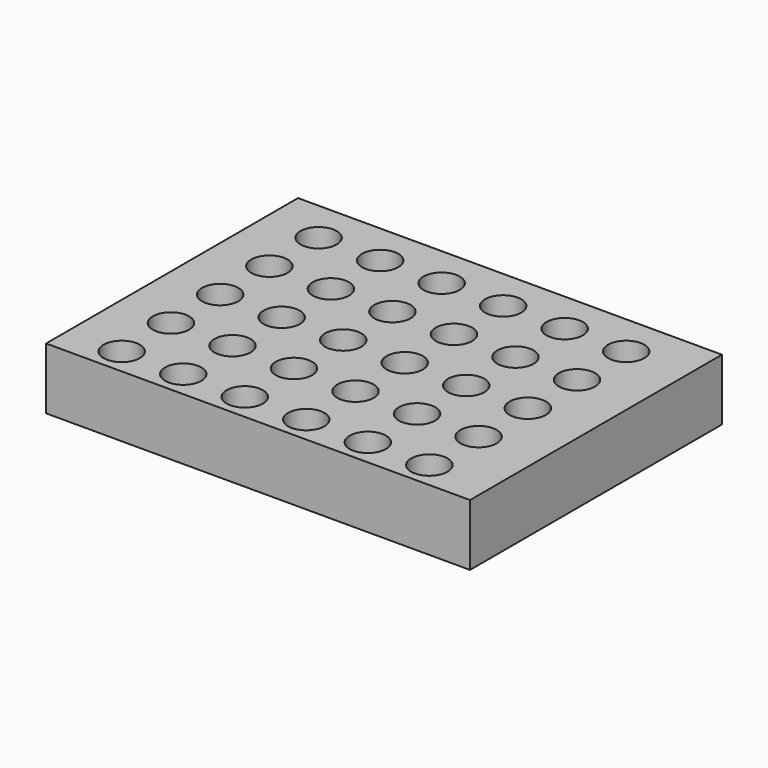
from build123d import *

# Parameters (mm, degrees)
F0_W     = 175
F0_H     = 130
F0_R     = 7.5
F1_DEPTH = 25.4


with BuildPart() as f1:
    # F0 (on Top) → F1 (new body)
    with BuildSketch(Plane.XY):
        with Locations((-0.0971, 0.811385)):
            Rectangle(F0_W, F0_H)
        with Locations((-65.0971, -53.288615)):
            Circle(F0_R, mode=Mode.SUBTRACT)
        with Locations((-39.6971, -53.288615)):
            Circle(F0_R, mode=Mode.SUBTRACT)
        with Locations((-14.2971, -53.288615)):
            Circle(F0_R, mode=Mode.SUBTRACT)
        with Locations((-65.0971, -27.888615)):
            Circle(F0_R, mode=Mode.SUBTRACT)
        with Locations((-65.0971, -2.488615)):
            Circle(F0_R, mode=Mode.SUBTRACT)
        with Locations((-39.6971, -27.888615)):
            Circle(F0_R, mode=Mode.SUBTRACT)
        with Locations((-14.2971, -27.888615)):
            Circle(F0_R, mode=Mode.SUBTRACT)
        with Locations((-39.6971, -2.488615)):
            Circle(F0_R, mode=Mode.SUBTRACT)
        with Locations((-14.2971, -2.488615)):
            Circle(F0_R, mode=Mode.SUBTRACT)
        with Locations((11.1029, -53.288615)):
            Circle(F0_R, mode=Mode.SUBTRACT)
        with Locations((36.5029, -53.288615)):
            Circle(F0_R, mode=Mode.SUBTRACT)
        with Locations((61.9029, -53.288615)):
            Circle(F0_R, mode=Mode.SUBTRACT)
        with Locations((11.1029, -27.888615)):
            Circle(F0_R, mode=Mode.SUBTRACT)
        with Locations((36.5029, -27.888615)):
            Circle(F0_R, mode=Mode.SUBTRACT)
        with Locations((11.1029, -2.488615)):
            Circle(F0_R, mode=Mode.SUBTRACT)
        with Locations((36.5029, -2.488615)):
            Circle(F0_R, mode=Mode.SUBTRACT)
        with Locations((61.9029, -27.888615)):
            Circle(F0_R, mode=Mode.SUBTRACT)
        with Locations((61.9029, -2.488615)):
            Circle(F0_R, mode=Mode.SUBTRACT)
        with Locations((-65.0971, 22.911385)):
            Circle(F0_R, mode=Mode.SUBTRACT)
        with Locations((-39.6971, 22.911385)):
            Circle(F0_R, mode=Mode.SUBTRACT)
        with Locations((-14.2971, 22.911385)):
            Circle(F0_R, mode=Mode.SUBTRACT)
        with Locations((-65.0971, 48.311385)):
            Circle(F0_R, mode=Mode.SUBTRACT)
        with Locations((-39.6971, 48.311385)):
            Circle(F0_R, mode=Mode.SUBTRACT)
        with Locations((-14.2971, 48.311385)):
            Circle(F0_R, mode=Mode.SUBTRACT)
        with Locations((11.1029, 22.911385)):
            Circle(F0_R, mode=Mode.SUBTRACT)
        with Locations((36.5029, 22.911385)):
            Circle(F0_R, mode=Mode.SUBTRACT)
        with Locations((61.9029, 22.911385)):
            Circle(F0_R, mode=Mode.SUBTRACT)
        with Locations((11.1029, 48.311385)):
            Circle(F0_R, mode=Mode.SUBTRACT)
        with Locations((36.5029, 48.311385)):
            Circle(F0_R, mode=Mode.SUBTRACT)
        with Locations((61.9029, 48.311385)):
            Circle(F0_R, mode=Mode.SUBTRACT)
    extrude(amount=F1_DEPTH)


solid = f1.part
